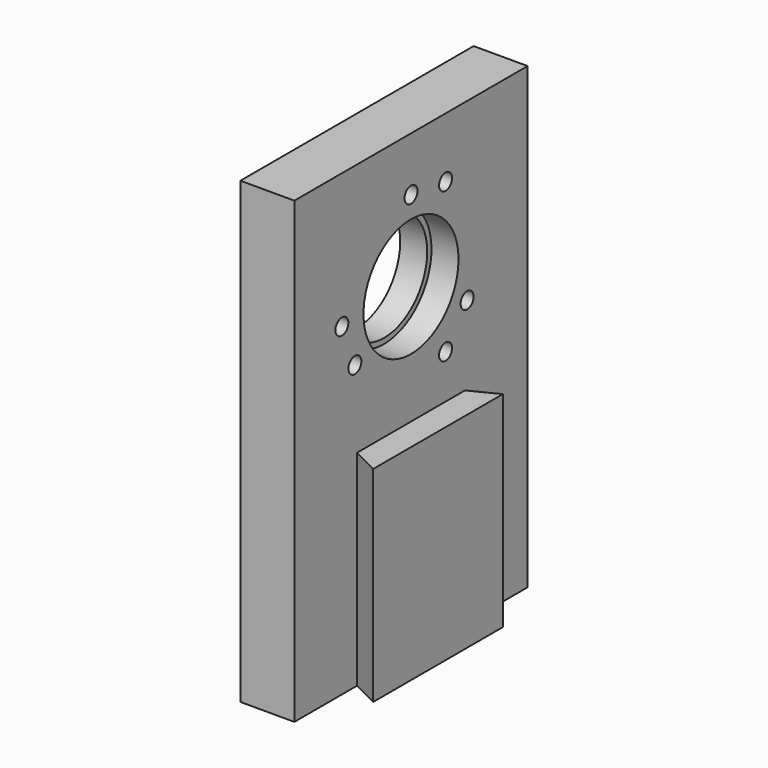
from build123d import *

# Parameters (mm, degrees)
PAD018_DEPTH          = 38
SKETCH032_W           = 10
SKETCH032_H           = 54
PAD019_DEPTH          = 85
SKETCH031_R           = 10
POCKET013_DEPTH       = 25.001
SKETCH030_R           = 1.5
POCKET014_DEPTH       = 218.62811
POLARPATTERN_COUNT    = 3
SKETCH033_R           = 3
POCKET002_DEPTH       = 5
POLARPATTERN001_COUNT = 3
SKETCH034_R           = 11
POCKET003_DEPTH       = 20


with BuildPart() as part:
    # Sketch035 → Pad018 (new body)
    with BuildSketch(Plane.XY):
        Polygon((-15, 0), (-15, 14.5), (-10, 12), (-10, 42), (-15, 39.5), (-15, 54), (-25, 54), (-25, 0), align=None)
    extrude(amount=PAD018_DEPTH)

    # Sketch032 → Pad019 (new body)
    with BuildSketch(Plane.XY):
        with Locations((-20, 27)):
            Rectangle(SKETCH032_W, SKETCH032_H)
    extrude(amount=PAD019_DEPTH)

    # Sketch031 → Pocket013 (cut, through all)
    with BuildSketch(Plane.YZ):
        with Locations((27, 60)):
            Circle(SKETCH031_R)
    extrude(amount=-POCKET013_DEPTH, mode=Mode.SUBTRACT)

    # Sketch030 → Pocket014 (cut, through all)
    with BuildSketch(Plane(origin=(-25, 27, 60), x_dir=(0, 1, 0), z_dir=(1, 0, 0))):
        with Locations((0, 15)):
            Circle(SKETCH030_R)
        with Locations((-16, 0)):
            Circle(SKETCH030_R)
    pocket014 = extrude(amount=POCKET014_DEPTH, mode=Mode.SUBTRACT)

    # PolarPattern: Pocket014 ×3 about axis
    polarpattern_axis = Axis((-25, 27, 60), (1, 0, 0))
    for i in range(1, POLARPATTERN_COUNT):
        add(pocket014.rotate(polarpattern_axis, i * 360 / POLARPATTERN_COUNT), mode=Mode.SUBTRACT)

    # Sketch033 → Pocket002 (cut)
    with BuildSketch(Plane(origin=(-25, 27, 60), x_dir=(0, 1, 0), z_dir=(1, 0, 0))):
        with Locations((0, 15)):
            Circle(SKETCH033_R)
        with Locations((-16, 0)):
            Circle(SKETCH033_R)
    pocket002 = extrude(amount=POCKET002_DEPTH, mode=Mode.SUBTRACT)

    # PolarPattern001: Pocket002 ×3 about axis
    polarpattern001_axis = Axis((-25, 27, 60), (1, 0, 0))
    for i in range(1, POLARPATTERN001_COUNT):
        add(pocket002.rotate(polarpattern001_axis, i * 360 / POLARPATTERN001_COUNT), mode=Mode.SUBTRACT)

    # Sketch034 → Pocket003 (cut)
    with BuildSketch(Plane.YZ):
        with Locations((27, 60)):
            Circle(SKETCH034_R)
    extrude(amount=-POCKET003_DEPTH, mode=Mode.SUBTRACT)


solid = part.part
